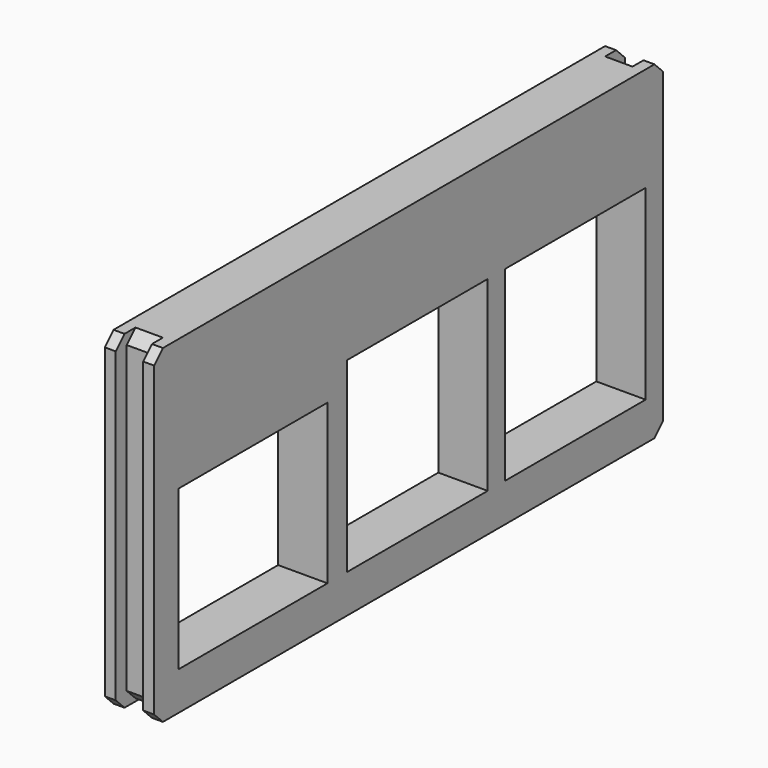
from build123d import *

# Parameters (mm, degrees)
BOX032_W        = 13
BOX032_H        = 16
BOX032_DEPTH    = 17
BOX030_W        = 11
BOX030_H        = 17
BOX030_DEPTH    = 14.5
BOX033_W        = 13
BOX033_H        = 16
BOX033_DEPTH    = 17
BOX028_W        = 1
BOX028_H        = 58
BOX028_DEPTH    = 30
CHAMFER010_SIZE = 1
BOX029_W        = 1
BOX029_H        = 58
BOX029_DEPTH    = 30
CHAMFER011_SIZE = 1
BOX027_W        = 4
BOX027_H        = 55.5
BOX027_DEPTH    = 29.75
CHAMFER012_SIZE = 1


with BuildPart() as usb2:
    # Box032 → Box032 (new body)
    with BuildSketch(Plane(origin=(111, 167, 9), x_dir=(1, 0, 0), z_dir=(0, 0, 1))):
        with Locations((6.5, 8)):
            Rectangle(BOX032_W, BOX032_H)
    extrude(amount=BOX032_DEPTH)


with BuildPart() as obj1:
    # Box030 → Box030 (new body)
    with BuildSketch(Plane(origin=(111, 129.75, 9), x_dir=(1, 0, 0), z_dir=(0, 0, 1))):
        with Locations((5.5, 8.5)):
            Rectangle(BOX030_W, BOX030_H)
    extrude(amount=BOX030_DEPTH)


with BuildPart() as fusion010004007026009007004010022:
    # Box033 → Box033 (new body)
    with BuildSketch(Plane(origin=(111, 149, 9), x_dir=(1, 0, 0), z_dir=(0, 0, 1))):
        with Locations((6.5, 8)):
            Rectangle(BOX033_W, BOX033_H)
    extrude(amount=BOX033_DEPTH)

    # Fusion010004007026009007004010022: union usb2, obj1
    add(usb2.part)
    add(obj1.part)


with BuildPart() as fusion010004007026009007004010022_1:
    # Fusion010004007026009007004010022 placement: moved
    add(fusion010004007026009007004010022.part.moved(Location((0, 0, -0.5))))


with BuildPart() as chamfer010:
    # Box028 → Box028 (new body)
    with BuildSketch(Plane(origin=(117.25, 127, 5), x_dir=(1, 0, 0), z_dir=(0, 0, 1))):
        with Locations((0.5, 29)):
            Rectangle(BOX028_W, BOX028_H)
    extrude(amount=BOX028_DEPTH)

    # Chamfer010
    chamfer010_edges = [chamfer010.edges().sort_by_distance(p)[0] for p in [
        (117.75, 127, 5),
        (117.75, 127, 35),
        (117.75, 185, 5),
        (117.75, 185, 35),
    ]]
    chamfer(chamfer010_edges, length=CHAMFER010_SIZE)


with BuildPart() as chamfer011:
    # Box029 → Box029 (new body)
    with BuildSketch(Plane(origin=(113.75, 127, 5), x_dir=(1, 0, 0), z_dir=(0, 0, 1))):
        with Locations((0.5, 29)):
            Rectangle(BOX029_W, BOX029_H)
    extrude(amount=BOX029_DEPTH)

    # Chamfer011
    chamfer011_edges = [chamfer011.edges().sort_by_distance(p)[0] for p in [
        (114.25, 127, 5),
        (114.25, 127, 35),
        (114.25, 185, 5),
        (114.25, 185, 35),
    ]]
    chamfer(chamfer011_edges, length=CHAMFER011_SIZE)


with BuildPart() as cut003002006013012002:
    # Box027 → Box027 (new body)
    with BuildSketch(Plane(origin=(114, 128.25, 5.25), x_dir=(1, 0, 0), z_dir=(0, 0, 1))):
        with Locations((2, 27.75)):
            Rectangle(BOX027_W, BOX027_H)
    extrude(amount=BOX027_DEPTH)

    # Chamfer012
    chamfer012_edges = [cut003002006013012002.edges().sort_by_distance(p)[0] for p in [
        (116, 128.25, 5.25),
        (116, 128.25, 35),
        (116, 183.75, 5.25),
        (116, 183.75, 35),
    ]]
    chamfer(chamfer012_edges, length=CHAMFER012_SIZE)

    # Fusion010004007026009007004010021: union Chamfer010, Chamfer011
    add(chamfer010.part)
    add(chamfer011.part)

    # Cut003002006013012002: cut Fusion010004007026009007004010022
    add(fusion010004007026009007004010022_1.part, mode=Mode.SUBTRACT)


solid = cut003002006013012002.part
